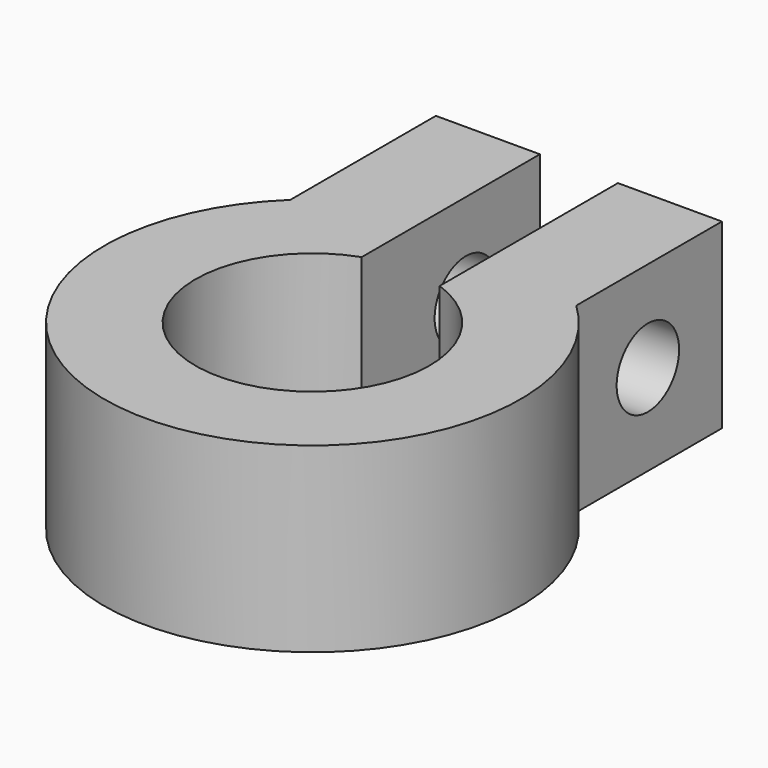
from build123d import *

# Parameters (mm, degrees)
PAD_DEPTH    = 7
SKETCH001_R  = 1.5
POCKET_DEPTH = 13.501


with BuildPart() as part:
    # Sketch → Pad (new body)
    with BuildSketch(Plane.XY):
        with BuildLine():
            ThreePointArc((-1.5, 4.242641), (0, -4.5), (1.5, 4.242641))
            Line((1.5, 4.242641), (1.5, 12.809475))
            Line((1.5, 12.809475), (5.5, 12.809475))
            Line((5.5, 12.809475), (5.5, 5.809475))
            ThreePointArc((-5.5, 5.809475), (0, -8), (5.5, 5.809475))
            Line((-5.5, 5.809475), (-5.5, 12.809475))
            Line((-5.5, 12.809475), (-1.5, 12.809475))
            Line((-1.5, 12.809475), (-1.5, 4.242641))
        make_face()
    extrude(amount=PAD_DEPTH)

    # Sketch001 (on Face7 of Pad) → Pocket (cut, through all)
    with BuildSketch(Plane.YZ.offset(5.5)):
        with Locations((9.25, 3.5)):
            Circle(SKETCH001_R)
    extrude(amount=-POCKET_DEPTH, mode=Mode.SUBTRACT)


solid = part.part
